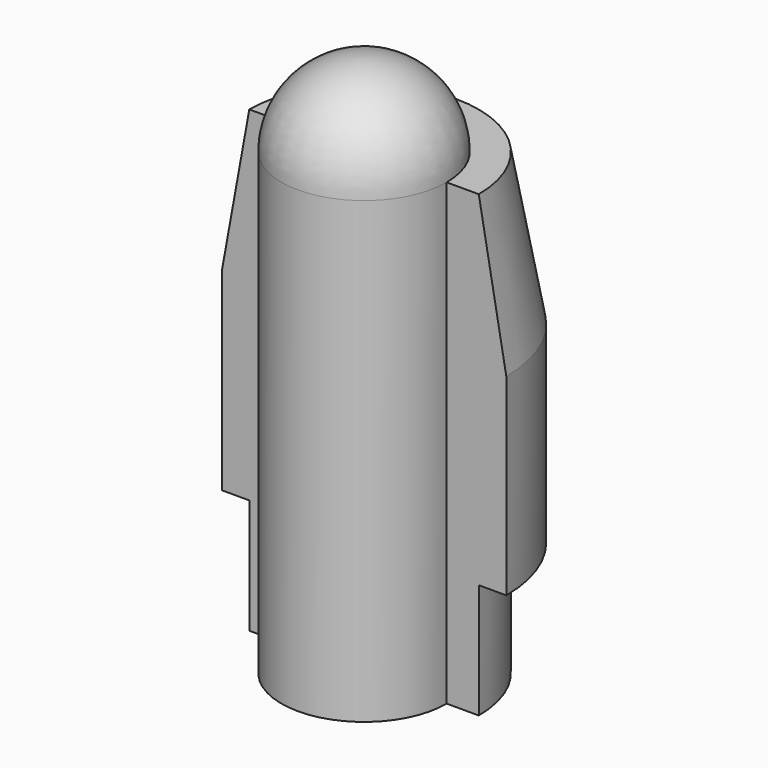
from build123d import *

# Parameters (mm, degrees)
F2_ANGLE = 180


with BuildPart() as f1:
    # F0 (on Front) → F1 (revolve)
    with BuildSketch(Plane.XZ):
        with BuildLine():
            ThreePointArc((0, 10.416769), (-1.616446, 9.747216), (-2.286, 8.130769))
            Line((-2.286, 8.130769), (-2.286, -4.569231))
            Line((-2.286, -4.569231), (0, -4.569231))
            Line((0, -4.569231), (0, 10.416769))
        make_face()
    revolve(axis=Axis((0, 0, 2.689288), (0, 0, -1)))

    # F0 (on Front) → F2 (revolve)
    with BuildSketch(Plane.XZ):
        Polygon((-2.286, -4.569231), (-2.286, 8.130769), (-3.175, 8.130817), (-3.937, 3.939769), (-3.937, -1.394231), (-3.175, -1.394231), (-3.175, -4.569231), align=None)
    revolve(axis=Axis((0, 0, 2.689288), (0, 0, -1)), revolution_arc=F2_ANGLE)


solid = f1.part
